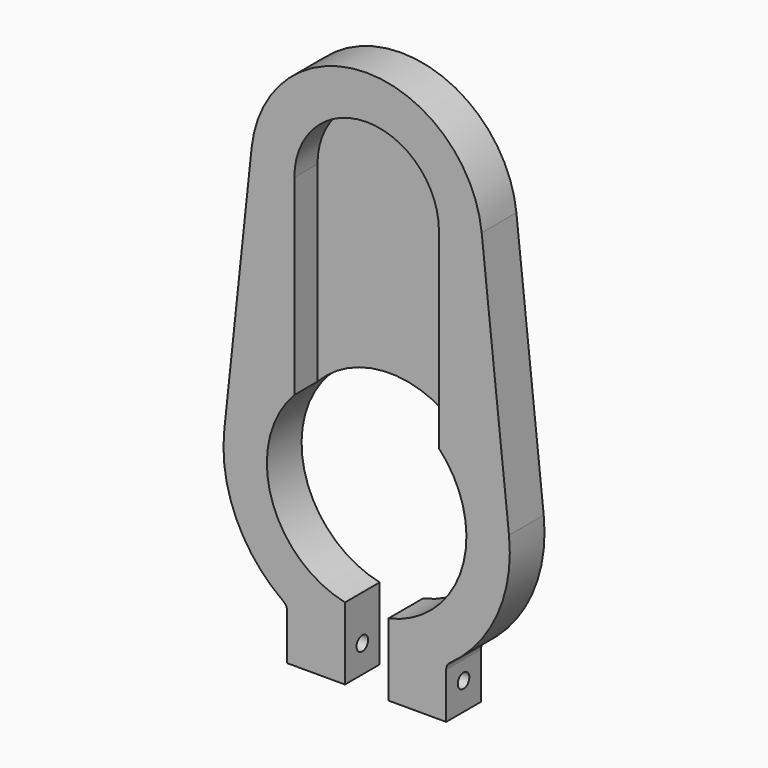
from build123d import *

# Parameters (mm, degrees)
F1_DEPTH = 19.05
F3_DEPTH = 12.7
F5_D     = 6.35
F6_R     = 3.81


with BuildPart() as f1:
    # F0 (on Front) → F1 (new body)
    with BuildSketch(Plane.XZ):
        with BuildLine():
            ThreePointArc((-9.525, -42.767144), (0, 43.815), (9.525, -42.767144))
            Line((9.525, -42.767144), (9.525, -74.517144))
            Line((9.525, -74.517144), (34.925, -74.517144))
            Line((34.925, -74.517144), (34.925, -52.270954))
            ThreePointArc((34.925, -52.270954), (56.930482, -26.663241), (62.513799, 6.63575))
            Line((62.513799, 6.63575), (50.516201, 119.662222))
            ThreePointArc((50.516201, 119.662222), (0, 165.1), (-50.516201, 119.662222))
            Line((-50.516201, 119.662222), (-62.513799, 6.63575))
            ThreePointArc((-62.513799, 6.63575), (-56.930482, -26.663241), (-34.925, -52.270954))
            Line((-34.925, -52.270954), (-34.925, -74.517144))
            Line((-34.925, -74.517144), (-9.525, -74.517144))
            Line((-9.525, -74.517144), (-9.525, -42.767144))
        make_face()
    extrude(amount=F1_DEPTH)

    # F2 (on face) → F3 (cut)
    with BuildSketch(Plane.XZ.offset(19.05)):
        with BuildLine():
            Line((31.75, 12.7), (31.75, 114.3))
            ThreePointArc((31.75, 114.3), (0, 146.05), (-31.75, 114.3))
            Line((-31.75, 114.3), (-31.75, 12.7))
            Line((-31.75, 12.7), (31.75, 12.7))
        make_face()
    extrude(amount=-F3_DEPTH, mode=Mode.SUBTRACT)

    # F5 (through all)
    with Locations(Plane.YZ.offset(34.925)):
        with Locations((-9.525, -62.430954)):
            Hole(F5_D / 2)

    # F6
    f6_edges = [f1.edges().sort_by_distance(p)[0] for p in [
        (34.925, -9.525, -52.270954),
        (-34.925, -9.525, -52.270954),
    ]]
    fillet(f6_edges, radius=F6_R)


solid = f1.part
